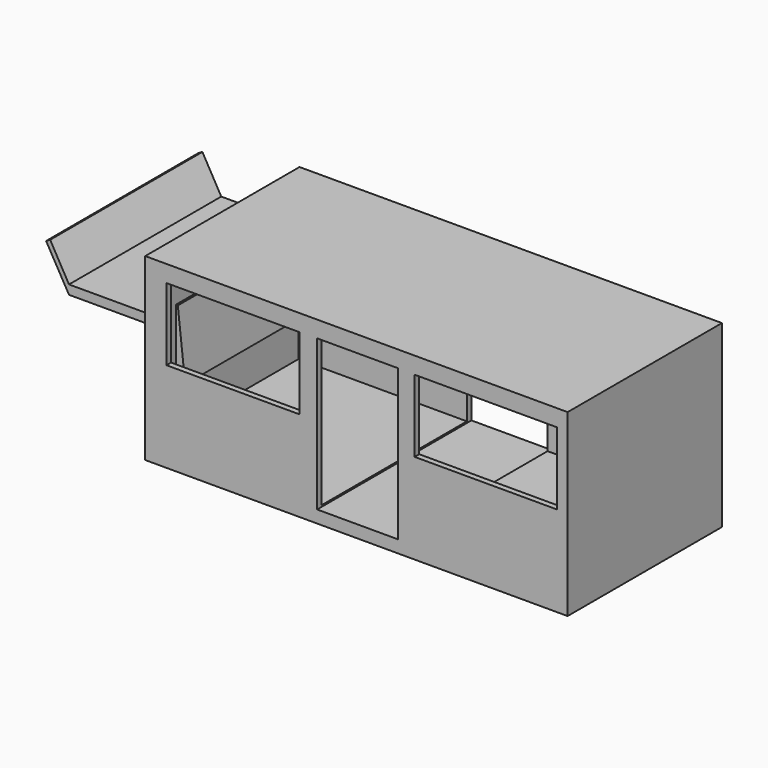
from build123d import *

# Parameters (mm, degrees)
F0_W      = 250.311822
F0_H      = 106.41057
F1_DEPTH  = 57.15
F2_W      = 246.1734
F2_H      = 107.510934
F3_DEPTH  = 44.958
F4_W      = 78.823588
F4_H      = 42.86033
F4_W_2    = 84.242716
F5_DEPTH  = 207.518
F6_W      = 47.32091
F6_H      = 5.413929
F7_DEPTH  = 56.388
F9_DEPTH  = 37.084
F10_R     = 7.910412
F11_R     = 6.211921
F12_W     = 47.843273
F12_H     = 89.287125
F13_DEPTH = 78.74


with BuildPart() as f1:
    # F0 (on Front) → F1 (new body, symmetric)
    with BuildSketch(Plane.XZ):
        Rectangle(F0_W, F0_H)
    extrude(amount=F1_DEPTH, both=True)

    # F2 (on Top) → F3 (cut, symmetric)
    with BuildSketch(Plane.XY):
        Rectangle(F2_W, F2_H)
    extrude(amount=F3_DEPTH, both=True, mode=Mode.SUBTRACT)

    # F4 (on Front) → F5 (cut, symmetric)
    with BuildSketch(Plane.XZ):
        with Locations((-73.158145, 21.79965)):
            Rectangle(F4_W, F4_H)
        with Locations((76.606676, 21.79965)):
            Rectangle(F4_W_2, F4_H)
    extrude(amount=F5_DEPTH, both=True, mode=Mode.SUBTRACT)

    # F6 (on Front) → F7 (join, symmetric)
    with BuildSketch(Plane.XZ):
        with Locations((-147.265818, 20.498943)):
            Rectangle(F6_W, F6_H)
        Polygon((-170.926273, 17.791979), (-170.926273, 23.205908), (-182.093537, 42.867189), (-184.512094, 41.480076), align=None)
    extrude(amount=F7_DEPTH, both=True)

    # F8 (on Front) → F9 (join, symmetric)
    with BuildSketch(Plane.XZ):
        with BuildLine():
            Line((-121.890865, 20.348705), (-171.379492, 20.264825))
            Line((-171.379492, 20.264825), (-140.906081, 9.599128))
            ThreePointArc((-140.906081, 9.599128), (-126.654572, -2.899753), (-125.059903, -21.788495))
            Line((-125.059903, -21.788495), (-117.50719, -19.347493))
            Line((-117.50719, -19.347493), (-121.890865, 20.348705))
        make_face()
    extrude(amount=F9_DEPTH, both=True)

    # F10
    f10_edges = [f1.edges().sort_by_distance(p)[0] for p in [
        (-144.735065, -37.084, 17.791979),
        (-125.155911, -37.084, 5.621087),
        (-125.155911, 37.084, 5.621087),
        (-144.735065, 37.084, 17.791979),
    ]]
    fillet(f10_edges, radius=F10_R)

    # F11
    f11_edges = [f1.edges().sort_by_distance(p)[0] for p in [
        (-125.155911, 41.039206, -6.549804),
        (-125.155911, 0, -6.549804),
        (-125.155911, -41.039206, -6.549804),
    ]]
    fillet(f11_edges, radius=F11_R)

    # F12 (on Front) → F13 (cut, symmetric)
    with BuildSketch(Plane.XZ):
        with Locations((0.642964, -1.218934)):
            Rectangle(F12_W, F12_H)
    extrude(amount=F13_DEPTH, both=True, mode=Mode.SUBTRACT)


solid = f1.part
